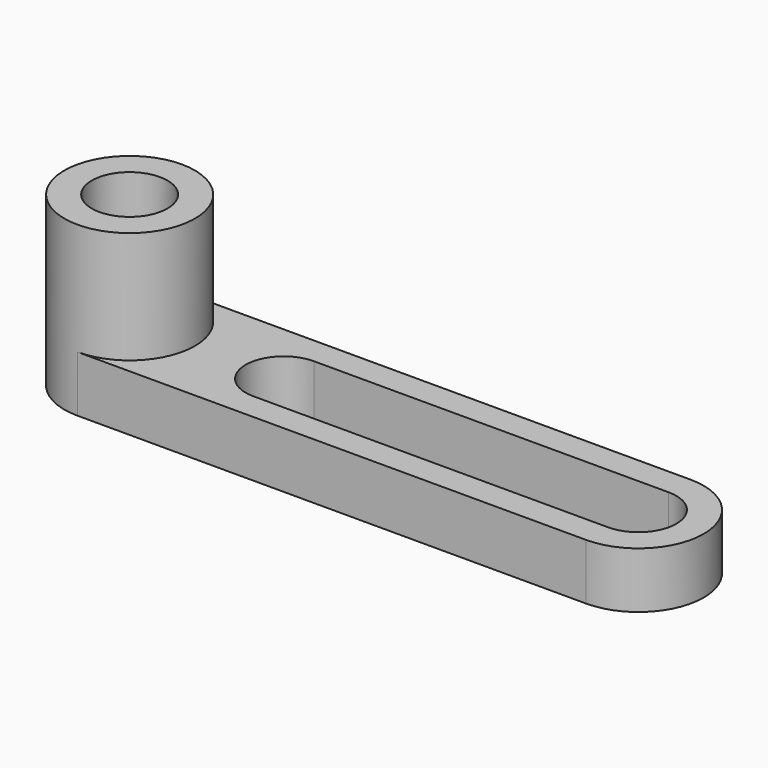
from build123d import *

# Parameters (mm, degrees)
F1_DEPTH = 12.7
F0_R     = 8.584377
F2_DEPTH = 38.1


with BuildPart() as f1:
    # F0 (on Top) → F1 (new body)
    with BuildSketch(Plane.XY):
        with BuildLine():
            ThreePointArc((57.637535, -14.788578), (72.426113, 0), (57.637535, 14.788578))
            Line((57.637535, 14.788578), (-57.637535, 14.788578))
            ThreePointArc((-57.637535, 14.788578), (-42.848957, 0), (-57.637535, -14.788578))
            Line((-57.637535, -14.788578), (57.637535, -14.788578))
        make_face()
        with BuildLine():
            ThreePointArc((-22.751659, -8.584377), (-31.336036, 0), (-22.751659, 8.584377))
            Line((-22.751659, 8.584377), (57.637535, 8.584377))
            ThreePointArc((57.637535, 8.584377), (66.221912, 0), (57.637535, -8.584377))
            Line((57.637535, -8.584377), (-22.751659, -8.584377))
        make_face(mode=Mode.SUBTRACT)
    extrude(amount=F1_DEPTH)

    # F0 (on Top) → F2 (join)
    with BuildSketch(Plane.XY):
        with BuildLine():
            ThreePointArc((-57.637535, -14.788578), (-42.848957, 0), (-57.637535, 14.788578))
            ThreePointArc((-57.637535, 14.788578), (-72.426113, 0), (-57.637535, -14.788578))
        make_face()
        with Locations((-57.637535, 0)):
            Circle(F0_R, mode=Mode.SUBTRACT)
    extrude(amount=F2_DEPTH)


solid = f1.part
